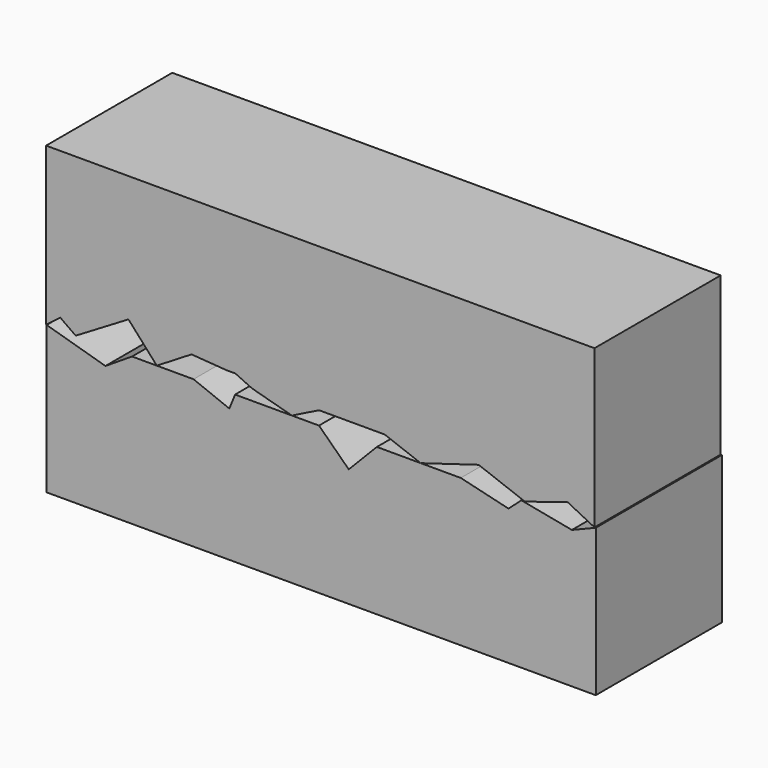
from build123d import *

# Parameters (mm, degrees)
F2_DEPTH = 50
F3_DEPTH = 50


with BuildPart() as f2:
    # F0 (on Front) → F2 (new body)
    with BuildSketch(Plane.XZ):
        Polygon((-82.040824, 3.469388), (-77.142866, 0), (-60.408165, 10), (-51.428573, 0), (-40.408164, 6.734695), (-29.387758, 5.918367), (-26.530614, 5.918367), (-21.22449, 3.469388), (-8.57143, 0), (0, 4.285715), (20.816326, 4.285715), (32.244901, 0), (50.612248, 5.510204), (65.306128, 0), (78.775516, 4.285715), (87.346937, 0), (87.346937, 50), (-86.530612, 50), (-86.530612, 0), align=None)
    extrude(amount=F2_DEPTH)


with BuildPart() as f3:
    # F1 (on Front) → F3 (new body)
    with BuildSketch(Plane.XZ):
        Polygon((-67.715682, -5.38586), (-86.347848, 0), (-86.347848, -46.72597), (87.746426, -46.72597), (87.746426, 0), (80.177106, -3.056839), (64.165093, 0), (60.089309, -3.639095), (44.950675, 0), (18.348347, 0), (9.433115, -9.170518), (0, 0), (-26.620046, 0), (-28.413467, -4.512477), (-39.76744, 0), (-59.272986, 0), align=None)
    extrude(amount=F3_DEPTH)


solid = Compound([f2.part, f3.part])
